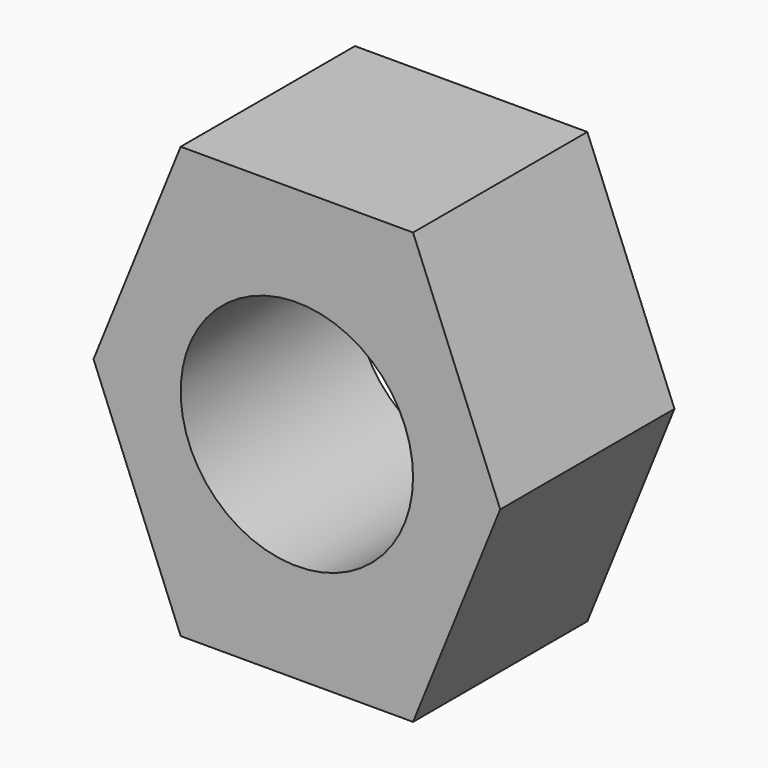
from build123d import *

# Parameters (mm, degrees)
F1_DEPTH = 15


with BuildPart() as f1:
    # F0 (on Front) → F1 (new body)
    with BuildSketch(Plane.XZ):
        Polygon((-2.254277, 14.832397), (-8.254277, 0), (-2.254277, -14.832397), (13.745723, -14.832397), (19.745723, 0), (13.745723, 14.832397), align=None)
        with BuildLine():
            ThreePointArc((-2.254277, 0), (5.745723, 8), (13.745723, 0))
            ThreePointArc((13.745723, 0), (5.745723, -8), (-2.254277, 0))
        make_face(mode=Mode.SUBTRACT)
    extrude(amount=F1_DEPTH)


solid = f1.part
